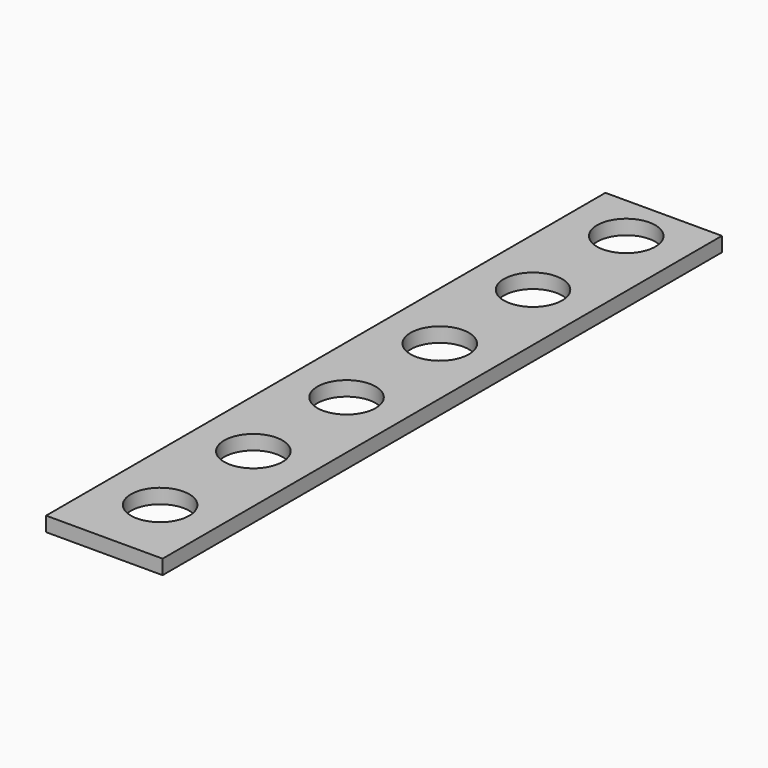
from build123d import *

# Parameters (mm, degrees)
F0_W     = 25.4
F0_H     = 152.4
F1_DEPTH = 3.175
F3_D     = 12.7
F3_DEPTH = 25.4
F3_TIP   = 3.8154649308
F4_D     = 12.7
F4_DEPTH = 25.4
F4_TIP   = 3.8154649308


with BuildPart() as f1:
    # F0 (on Top) → F1 (new body)
    with BuildSketch(Plane.XY):
        Rectangle(F0_W, F0_H)
    extrude(amount=F1_DEPTH)

    # F3
    with Locations(Plane(origin=(0, 0, 0), x_dir=(1, 0, 0), z_dir=(0, 0, -1))):
        with Locations((0, 61.0016693357)):
            Hole(F3_D / 2, depth=F3_DEPTH)
            with Locations((0, 0, -(F3_DEPTH + F3_TIP / 2))):  # 118° drill point
                Cone(0, F3_D / 2, F3_TIP, mode=Mode.SUBTRACT)

    # F4
    with Locations(Plane(origin=(0, 0, 0), x_dir=(1, 0, 0), z_dir=(0, 0, -1))):
        with Locations((0, 35.6016693357), (0, 10.2016693357), (0, -15.1983306643), (0, -40.5983306643), (0, -65.9983306643), (0, -91.3983306643), (0, -116.7983306643), (0, -142.1983306643)):
            Hole(F4_D / 2, depth=F4_DEPTH)
            with Locations((0, 0, -(F4_DEPTH + F4_TIP / 2))):  # 118° drill point
                Cone(0, F4_D / 2, F4_TIP, mode=Mode.SUBTRACT)


solid = f1.part
